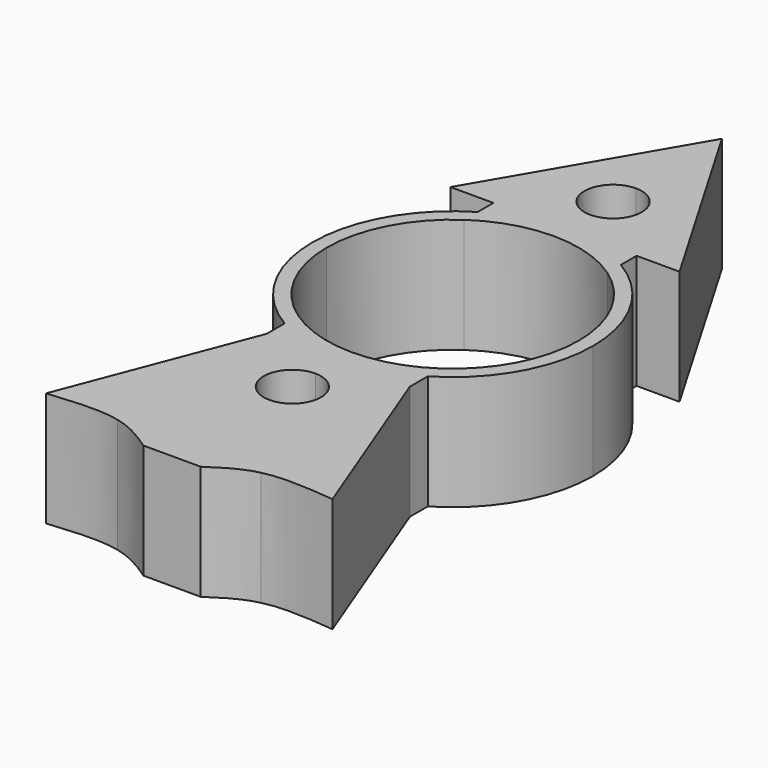
from build123d import *

# Parameters (mm, degrees)
F1_DEPTH = 10


with BuildPart() as f1:
    # F0 (on Top) → F1 (new body)
    with BuildSketch(Plane.XY):
        with BuildLine():
            Line((-6.25, -20.25), (0, -20.25))
            Line((0, -20.25), (0, -17.5))
            ThreePointArc((0, -17.5), (-2.5, -15), (0, -12.5))
            Line((0, -12.5), (0, -3.125))
            Line((0, -3.125), (-10, -20.25))
            Line((-10, -20.25), (-6.25, -20.25))
        make_face()
        with BuildLine():
            Line((0, -17.5), (0, -20.25))
            Line((0, -20.25), (6.25, -20.25))
            Line((6.25, -20.25), (10, -20.25))
            Line((10, -20.25), (0, -3.125))
            Line((0, -3.125), (0, -12.5))
            ThreePointArc((0, -12.5), (1.767766953, -13.232233047), (2.5, -15))
            ThreePointArc((2.5, -15), (1.767766953, -16.767766953), (0, -17.5))
        make_face()
        with BuildLine():
            Line((-12.25, -32.5), (-11, -32.5))
            ThreePointArc((-11, -32.5), (-9.7403798694, -27.3887379249), (-6.25, -23.4480665049))
            Line((-6.25, -23.4480665049), (-6.25, -21.9643462471))
            ThreePointArc((-6.25, -21.9643462471), (-10.644834428, -26.4378221735), (-12.25, -32.5))
        make_face()
        with BuildLine():
            Line((12.25, -32.5), (11, -32.5))
            ThreePointArc((11, -32.5), (9.7403798694, -37.6112620751), (6.25, -41.5519334951))
            Line((6.25, -41.5519334951), (6.25, -43.0356537529))
            ThreePointArc((6.25, -43.0356537529), (10.644834428, -38.5621778265), (12.25, -32.5))
        make_face()
        with BuildLine():
            ThreePointArc((6.25, -23.4480665049), (9.7403798694, -27.3887379249), (11, -32.5))
            Line((11, -32.5), (12.25, -32.5))
            ThreePointArc((12.25, -32.5), (10.644834428, -26.4378221735), (6.25, -21.9643462471))
            Line((6.25, -21.9643462471), (6.25, -23.4480665049))
        make_face()
        with BuildLine():
            ThreePointArc((-6.25, -41.5519334951), (-9.7403798694, -37.6112620751), (-11, -32.5))
            Line((-11, -32.5), (-12.25, -32.5))
            ThreePointArc((-12.25, -32.5), (-10.644834428, -38.5621778265), (-6.25, -43.0356537529))
            Line((-6.25, -43.0356537529), (-6.25, -41.5519334951))
        make_face()
        with BuildLine():
            Line((12.5, -61.25), (6.25, -45))
            Line((6.25, -45), (6.25, -61.25))
            add(Edge.make_bspline(
                [(6.25, -61.25), (8.0270451152, -60.8304965537), (10.2635225576, -61.0402482769), (12.5, -61.25)],
                knots=[0.4502583469, 0.4502583469, 0.4502583469, 0.4502583469, 1, 1, 1, 1], degree=3))
        make_face()
        Polygon((6.25, -45), (-6.25, -45), (-6.25, -61.25), (0, -61.25), (6.25, -61.25), align=None)
        with BuildLine():
            ThreePointArc((0, -47.5), (1.767766953, -48.232233047), (2.5, -50))
            ThreePointArc((2.5, -50), (-1.767766953, -51.767766953), (0, -47.5))
        make_face(mode=Mode.SUBTRACT)
        with BuildLine():
            Line((-6.25, -61.25), (-6.25, -45))
            Line((-6.25, -45), (-12.5, -61.25))
            add(Edge.make_bspline(
                [(-12.5, -61.25), (-10.2635225576, -61.0402482769), (-8.0270451152, -60.8304965537), (-6.25, -61.25)],
                knots=[0, 0, 0, 0, 0.5497416531, 0.5497416531, 0.5497416531, 0.5497416531], degree=3))
        make_face()
        with BuildLine():
            add(Edge.make_bspline(
                [(2.5, -63.125), (3.6472678085, -62.3592942666), (4.7945356171, -61.5935885332), (6.25, -61.25)],
                knots=[0, 0, 0, 0, 0.4502583469, 0.4502583469, 0.4502583469, 0.4502583469], degree=3))
            Line((6.25, -61.25), (0, -61.25))
            Line((0, -61.25), (0, -63.125))
            Line((0, -63.125), (2.5, -63.125))
        make_face()
        with BuildLine():
            Line((0, -61.25), (-6.25, -61.25))
            add(Edge.make_bspline(
                [(-6.25, -61.25), (-4.7945356171, -61.5935885332), (-3.6472678085, -62.3592942666), (-2.5, -63.125)],
                knots=[0.5497416531, 0.5497416531, 0.5497416531, 0.5497416531, 1, 1, 1, 1], degree=3))
            Line((-2.5, -63.125), (0, -63.125))
            Line((0, -63.125), (0, -61.25))
        make_face()
        with BuildLine():
            Line((-6.25, -21.9643462471), (-6.25, -23.4480665049))
            ThreePointArc((-6.25, -23.4480665049), (0, -21.5), (6.25, -23.4480665049))
            Line((6.25, -23.4480665049), (6.25, -21.9643462471))
            ThreePointArc((6.25, -21.9643462471), (3.2404275588, -20.6863583415), (0, -20.25))
            ThreePointArc((0, -20.25), (-3.2404275588, -20.6863583415), (-6.25, -21.9643462471))
        make_face()
        with BuildLine():
            ThreePointArc((6.25, -41.5519334951), (0, -43.5), (-6.25, -41.5519334951))
            Line((-6.25, -41.5519334951), (-6.25, -43.0356537529))
            ThreePointArc((-6.25, -43.0356537529), (0, -44.75), (6.25, -43.0356537529))
            Line((6.25, -43.0356537529), (6.25, -41.5519334951))
        make_face()
        with BuildLine():
            ThreePointArc((6.25, -43.0356537529), (0, -44.75), (-6.25, -43.0356537529))
            Line((-6.25, -43.0356537529), (-6.25, -45))
            Line((-6.25, -45), (6.25, -45))
            Line((6.25, -45), (6.25, -43.0356537529))
        make_face()
        with BuildLine():
            Line((-6.25, -20.25), (-6.25, -21.9643462471))
            ThreePointArc((-6.25, -21.9643462471), (-3.2404275588, -20.6863583415), (0, -20.25))
            Line((0, -20.25), (-6.25, -20.25))
        make_face()
        with BuildLine():
            ThreePointArc((0, -20.25), (3.2404275588, -20.6863583415), (6.25, -21.9643462471))
            Line((6.25, -21.9643462471), (6.25, -20.25))
            Line((6.25, -20.25), (0, -20.25))
        make_face()
    extrude(amount=F1_DEPTH)


solid = f1.part
